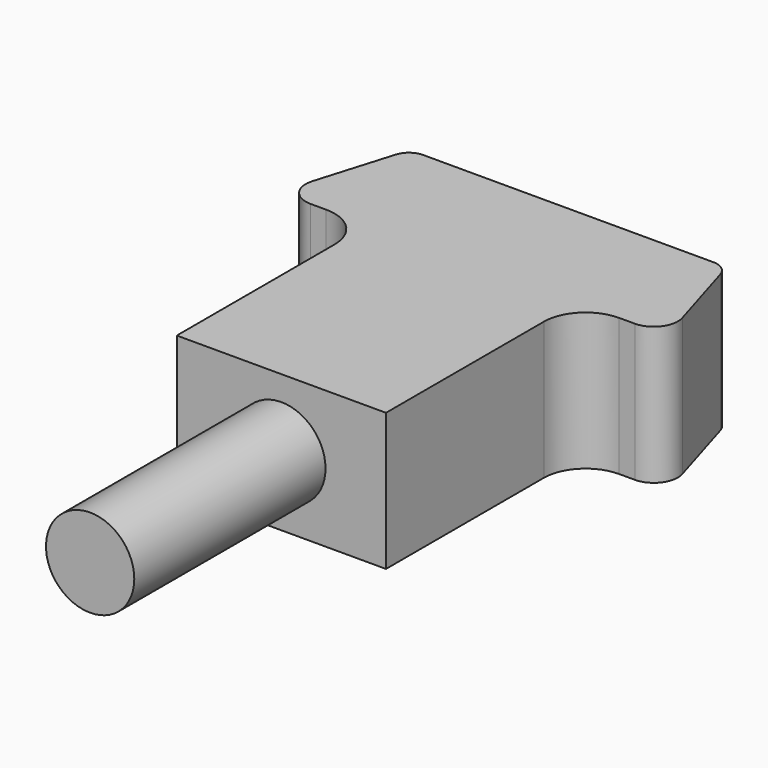
from build123d import *

# Parameters (mm, degrees)
F0_W     = 35
F0_H     = 40
F1_DEPTH = 23
F2_R     = 3
F3_R     = 4
F4_R     = 7
F5_R     = 7.384577
F6_DEPTH = 40


with BuildPart() as f1:
    # F0 (on Top) → F1 (new body)
    with BuildSketch(Plane.XY):
        with Locations((-6.869268, -8.927752)):
            Rectangle(F0_W, F0_H)
        Polygon((19.630732, 31.072248), (-33.369268, 31.072248), (-39.369268, 11.072248), (-24.369268, 11.072248), (10.630732, 11.072248), (25.630732, 11.072248), align=None)
    extrude(amount=F1_DEPTH)

    # F2
    f2_edges = [f1.edges().sort_by_distance(p)[0] for p in [
        (-33.369268, 31.072248, 11.5),
        (19.630732, 31.072248, 11.5),
    ]]
    fillet(f2_edges, radius=F2_R)

    # F3
    f3_edges = [f1.edges().sort_by_distance(p)[0] for p in [
        (-39.369268, 11.072248, 11.5),
        (25.630732, 11.072248, 11.5),
    ]]
    fillet(f3_edges, radius=F3_R)

    # F4
    f4_edges = [f1.edges().sort_by_distance(p)[0] for p in [
        (-24.369268, 11.072248, 11.5),
        (10.630732, 11.072248, 11.5),
    ]]
    fillet(f4_edges, radius=F4_R)

    # F5 (on face) → F6 (join)
    with BuildSketch(Plane.XZ.offset(28.927752)):
        with Locations((-6.869268, 11.5)):
            Circle(F5_R)
    extrude(amount=F6_DEPTH)


solid = f1.part
